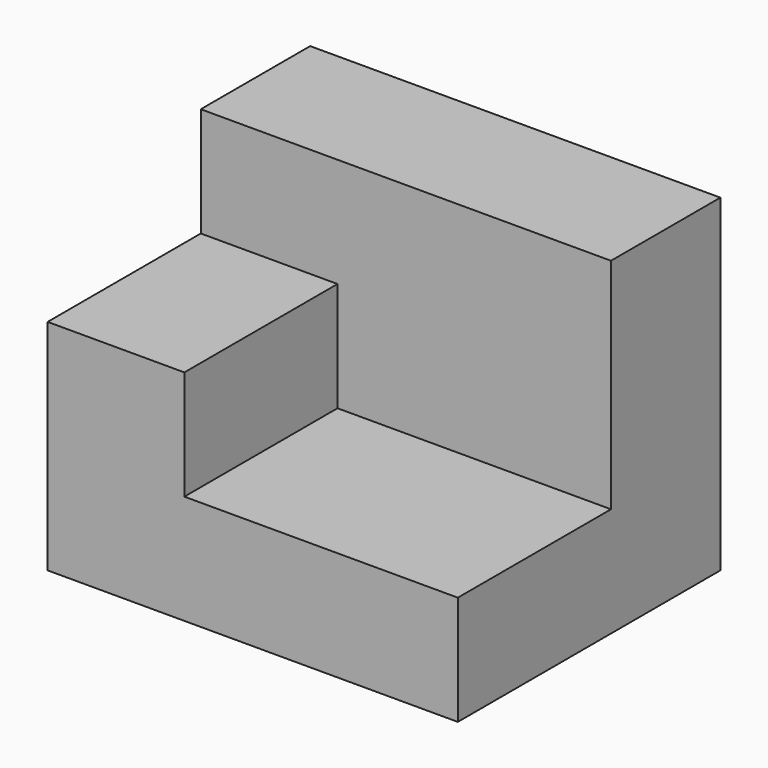
from build123d import *

# Parameters (mm, degrees)
F0_W     = 30
F0_H     = 24
F1_DEPTH = 24
F2_W     = 14
F2_H     = 16
F3_DEPTH = 20
F4_W     = 10
F4_H     = 8
F5_DEPTH = 14


with BuildPart() as f1:
    # F0 (on Top) → F1 (new body)
    with BuildSketch(Plane.XY):
        with Locations((15, 12)):
            Rectangle(F0_W, F0_H)
    extrude(amount=F1_DEPTH)

    # F2 (on face) → F3 (cut)
    with BuildSketch(Plane.YZ.offset(30)):
        with Locations((7, 16)):
            Rectangle(F2_W, F2_H)
    extrude(amount=-F3_DEPTH, mode=Mode.SUBTRACT)

    # F4 (on face) → F5 (cut)
    with BuildSketch(Plane.XZ):
        with Locations((5, 20)):
            Rectangle(F4_W, F4_H)
    extrude(amount=-F5_DEPTH, mode=Mode.SUBTRACT)


solid = f1.part
